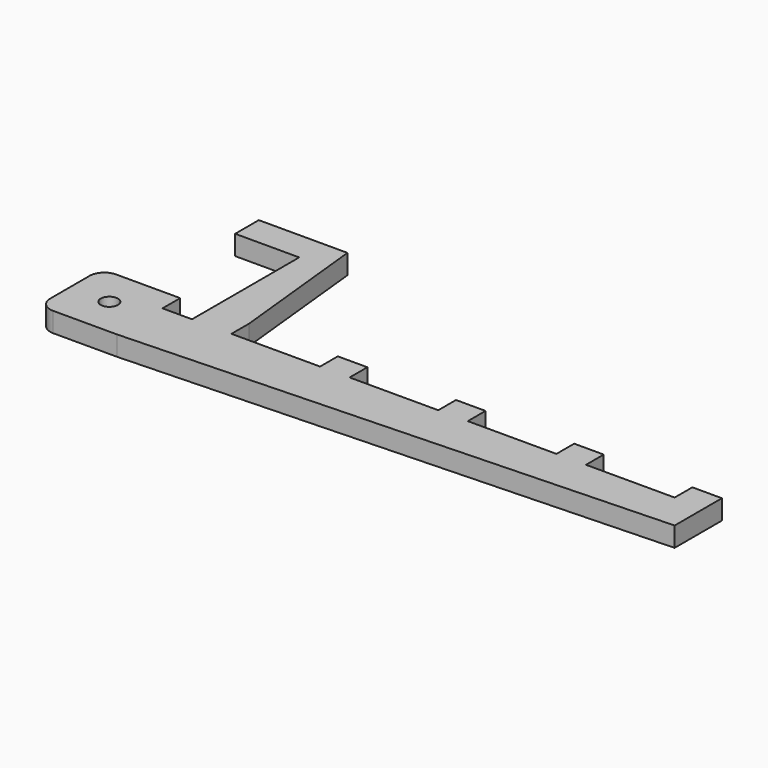
from build123d import *

# Parameters (mm, degrees)
F0_R     = 1.75
F1_DEPTH = 4


with BuildPart() as f1:
    # F0 (on Top) → F1 (new body)
    with BuildSketch(Plane.XY):
        with BuildLine():
            Line((-33, -6.35), (-36, 22.35))
            Line((-36, 22.35), (-54, 22.35))
            Line((-54, 22.35), (-54, 16.35))
            Line((-54, 16.35), (-41, 16.35))
            Line((-41, 16.35), (-41, -10.85))
            Line((-41, -10.85), (-47, -10.85))
            Line((-47, -10.85), (-47, -6.35))
            Line((-47, -6.35), (-60, -6.35))
            ThreePointArc((-60, -6.35), (-62.12132, -7.22868), (-63, -9.35))
            Line((-63, -9.35), (-63, -19.35))
            ThreePointArc((-63, -19.35), (-62.12132, -21.47132), (-60, -22.35))
            Line((-60, -22.35), (-47, -22.35))
            Line((-47, -22.35), (63, -18.35))
            Line((63, -18.35), (63, -6.35))
            Line((63, -6.35), (57, -6.35))
            Line((57, -6.35), (57, -10.85))
            Line((57, -10.85), (39, -10.85))
            Line((39, -10.85), (39, -6.35))
            Line((39, -6.35), (33, -6.35))
            Line((33, -6.35), (33, -10.85))
            Line((33, -10.85), (15, -10.85))
            Line((15, -10.85), (15, -6.35))
            Line((15, -6.35), (9, -6.35))
            Line((9, -6.35), (9, -10.85))
            Line((9, -10.85), (-9, -10.85))
            Line((-9, -10.85), (-9, -6.35))
            Line((-9, -6.35), (-15, -6.35))
            Line((-15, -6.35), (-15, -10.85))
            Line((-15, -10.85), (-33, -10.85))
            Line((-33, -10.85), (-33, -6.35))
        make_face()
        with Locations((-55, -14.35)):
            Circle(F0_R, mode=Mode.SUBTRACT)
    extrude(amount=F1_DEPTH)


solid = f1.part
